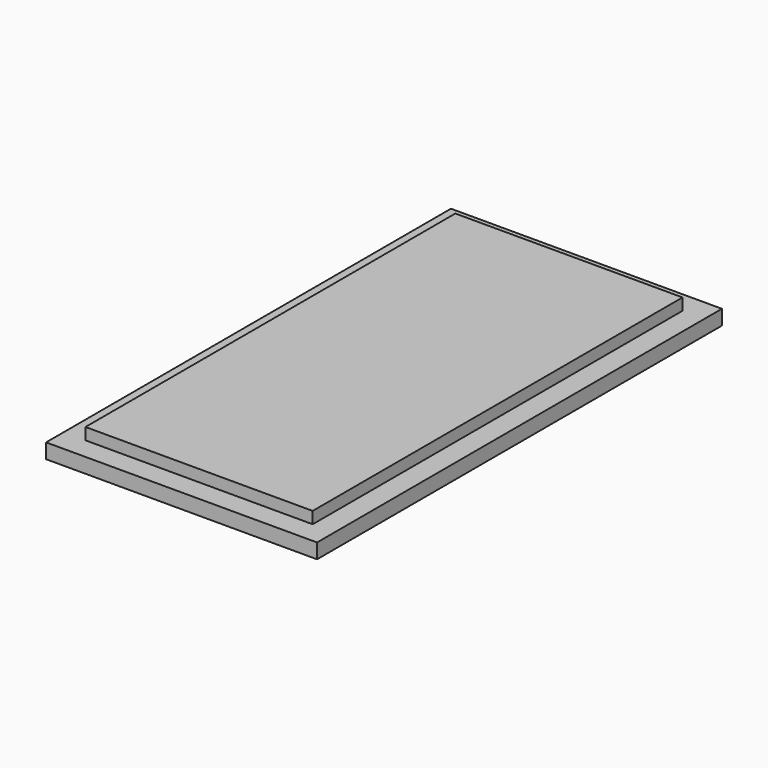
from build123d import *

# Parameters (mm, degrees)
F0_W     = 26.357442
F0_H     = 53.633034
F2_DEPTH = 3.087059
F1_W     = 31.437442
F1_H     = 58.713034
F3_DEPTH = 1.722396


with BuildPart() as f2:
    # F0 (on Top) → F2 (new body)
    with BuildSketch(Plane.XY):
        Rectangle(F0_W, F0_H)
    extrude(amount=F2_DEPTH)

    # F1 (on Top) → F3 (join)
    with BuildSketch(Plane.XY):
        Rectangle(F1_W, F1_H)
    extrude(amount=F3_DEPTH)


solid = f2.part
